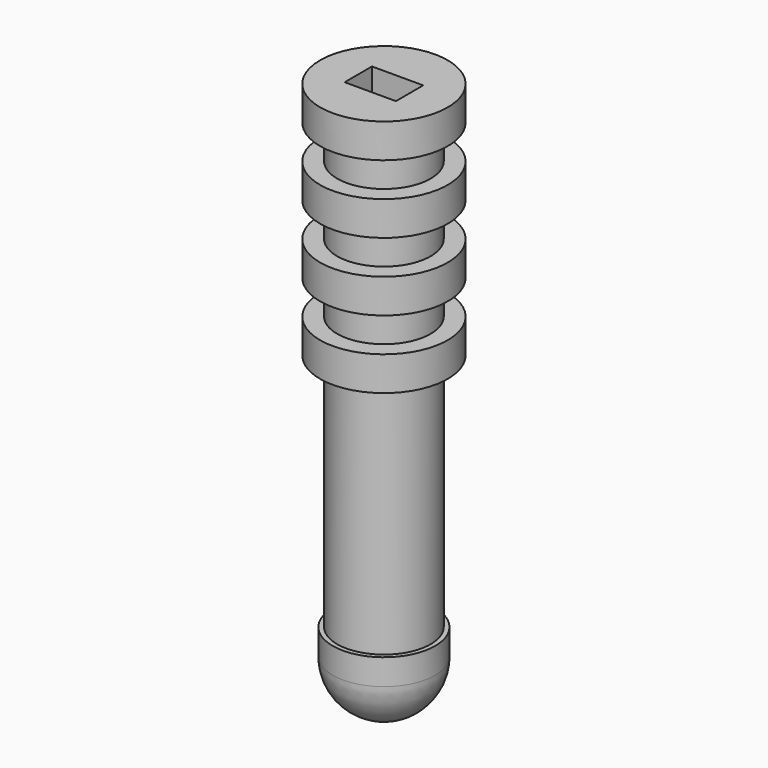
from build123d import *

# Parameters (mm, degrees)
F0_W     = 13.679126
F0_H     = 10
F0_W_2   = 13.682926
F0_H_2   = 70
F2_W     = 15
F2_H     = 10
F3_DEPTH = 15


with BuildPart() as f1:
    # F0 (on Front) → F1 (revolve)
    with BuildSketch(Plane.XZ):
        Polygon((-13.679126, 60), (0, 60), (0, 70), (-18.679126, 70), (-18.679126, 60), align=None)
        with Locations((-6.839563, 55)):
            Rectangle(F0_W, F0_H)
        Polygon((-13.682926, 40), (0, 40), (0, 50), (-13.679126, 50), (-18.682926, 50), (-18.682926, 40), align=None)
        with Locations((-6.841463, 35)):
            Rectangle(F0_W_2, F0_H)
        Polygon((-13.682926, 20), (0, 20), (0, 30), (-13.682926, 30), (-18.682926, 30), (-18.682926, 20), align=None)
        with Locations((-6.841463, 15)):
            Rectangle(F0_W_2, F0_H)
        Polygon((-13.682926, 0), (0, 0), (0, 10), (-13.682926, 10), (-18.682926, 10), (-18.682926, 0), align=None)
        with Locations((-6.841463, -35)):
            Rectangle(F0_W_2, F0_H_2)
        Polygon((0, -77.572376), (0, -70), (-13.682926, -70), (-15, -70), (-15, -77.572376), align=None)
        with BuildLine():
            Line((0, -92.572376), (0, -77.572376))
            Line((0, -77.572376), (-15, -77.572376))
            ThreePointArc((-15, -77.572376), (-10.606602, -88.178977), (0, -92.572376))
        make_face()
    revolve(axis=Axis((0, 0, 35), (0, 0, 1)))

    # F2 (on face) → F3 (cut)
    with BuildSketch(Plane.XY.offset(70)):
        Rectangle(F2_W, F2_H)
    extrude(amount=-F3_DEPTH, mode=Mode.SUBTRACT)


solid = f1.part
